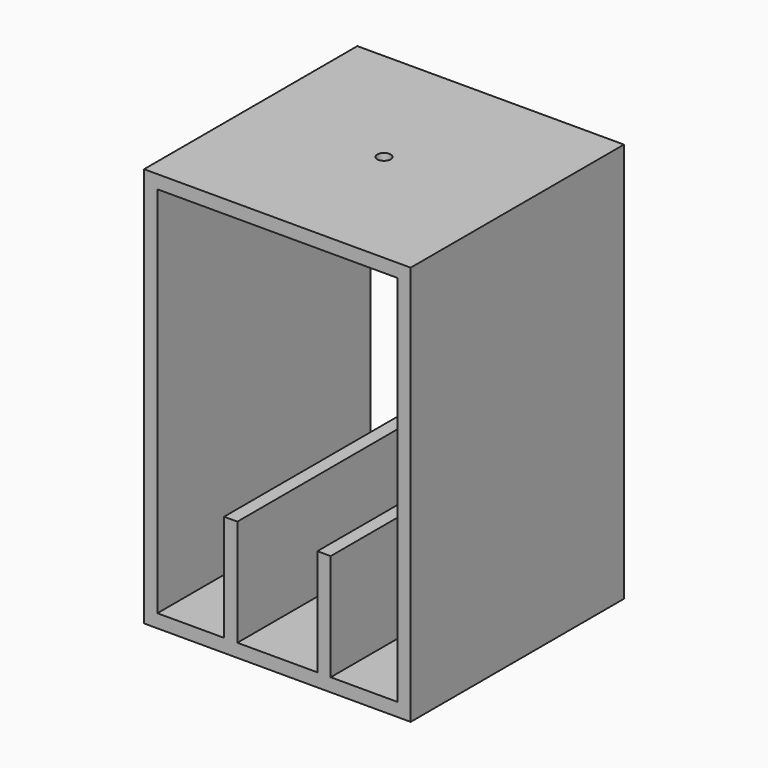
from build123d import *

# Parameters (mm, degrees)
F0_W     = 100
F0_H     = 100
F1_DEPTH = 150
F2_W     = 90
F2_H     = 140
F3_DEPTH = 100
F4_R     = 2.5
F5_DEPTH = 50
F6_W     = 5
F6_H     = 100
F7_DEPTH = 40


with BuildPart() as f1:
    # F0 (on Top) → F1 (new body)
    with BuildSketch(Plane.XY):
        with Locations((-4.986377, 7.071109)):
            Rectangle(F0_W, F0_H)
    extrude(amount=F1_DEPTH)

    # F2 (on face) → F3 (cut)
    with BuildSketch(Plane.XZ.offset(42.928891)):
        with Locations((-4.986377, 75)):
            Rectangle(F2_W, F2_H)
    extrude(amount=-F3_DEPTH, mode=Mode.SUBTRACT)

    # F4 (on face) → F5 (cut)
    with BuildSketch(Plane.XY.offset(150)):
        with Locations((-4.986377, 7.071109)):
            Circle(F4_R)
    extrude(amount=-F5_DEPTH, mode=Mode.SUBTRACT)

    # F6 (on face) → F7 (join)
    with BuildSketch(Plane.XY.offset(5)):
        with Locations((-22.486377, 7.071109)):
            Rectangle(F6_W, F6_H)
        with Locations((12.513623, 7.071109)):
            Rectangle(F6_W, F6_H)
    extrude(amount=F7_DEPTH)


solid = f1.part
